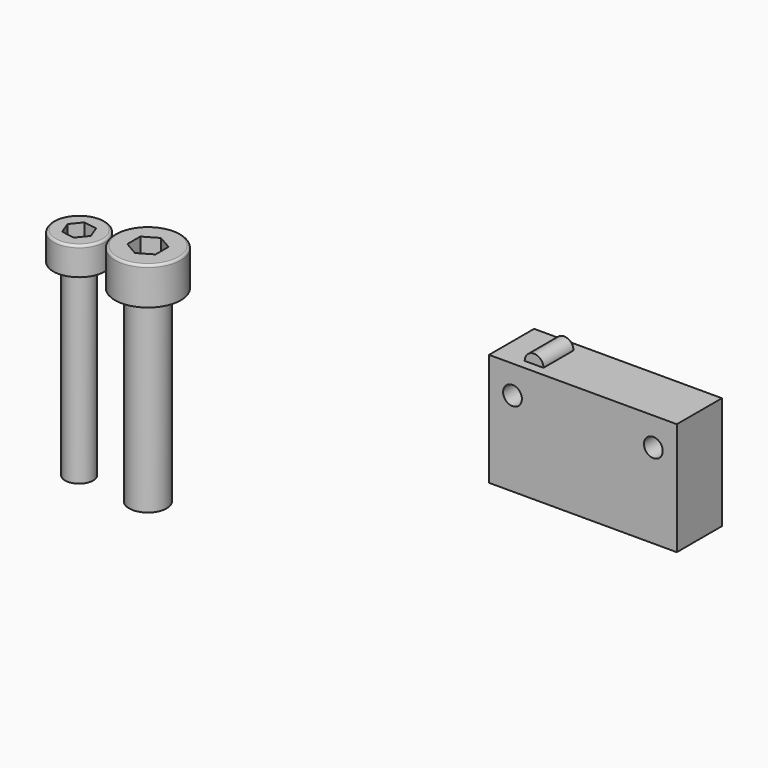
from build123d import *

# Parameters (mm, degrees)
F0_W      = 20
F0_H      = 12
F1_DEPTH  = 3
F2_R      = 1
F3_DEPTH  = 2
F4_R      = 1
F5_DEPTH  = 6.001
F6_R      = 1.5
F7_DEPTH  = 20
F8_R      = 2.75
F9_DEPTH  = 3
F11_DEPTH = 2
F12_R     = 0.25
F13_R     = 2
F14_DEPTH = 20
F15_R     = 3.5
F16_DEPTH = 4
F18_DEPTH = 3
F19_R     = 0.25


with BuildPart() as f1:
    # F0 (on Front) → F1 (new body, symmetric)
    with BuildSketch(Plane.XZ):
        with Locations((0, 6)):
            Rectangle(F0_W, F0_H)
    extrude(amount=F1_DEPTH, both=True)

    # F2 (on Front) → F3 (join, symmetric)
    with BuildSketch(Plane.XZ):
        with Locations((-6, 12)):
            Circle(F2_R)
    extrude(amount=F3_DEPTH, both=True)

    # F4 (on face) → F5 (cut, through all)
    with BuildSketch(Plane.XZ.offset(3)):
        with Locations((-7.5, 9)):
            Circle(F4_R)
        with Locations((7.5, 9)):
            Circle(F4_R)
    extrude(amount=-F5_DEPTH, mode=Mode.SUBTRACT)


with BuildPart() as f7:
    # F6 (on Top) → F7 (new body)
    with BuildSketch(Plane.XY):
        with Locations((-61.456285, 6.762655)):
            Circle(F6_R)
    extrude(amount=-F7_DEPTH)

    # F8 (on face) → F9 (join)
    with BuildSketch(Plane.XY):
        with Locations((-61.456285, 6.762655)):
            Circle(F8_R)
    extrude(amount=F9_DEPTH)

    # F10 (on face) → F11 (cut)
    with BuildSketch(Plane.XY.offset(3)):
        Polygon((-60.942254, 5.413914), (-60.031225, 6.533449), (-60.545257, 7.882191), (-61.970317, 8.111397), (-62.881346, 6.991862), (-62.367314, 5.64312), align=None)
    extrude(amount=-F11_DEPTH, mode=Mode.SUBTRACT)

    # F12
    f12_edges = [f7.edges().sort_by_distance(p)[0] for p in [
        (-64.206285, 6.762655, 3),
    ]]
    fillet(f12_edges, radius=F12_R)


with BuildPart() as f14:
    # F13 (on Top) → F14 (new body)
    with BuildSketch(Plane.XY):
        with Locations((-54.049708, 6.658276)):
            Circle(F13_R)
    extrude(amount=-F14_DEPTH)

    # F15 (on face) → F16 (join)
    with BuildSketch(Plane.XY):
        with Locations((-54.049708, 6.658276)):
            Circle(F15_R)
    extrude(amount=F16_DEPTH)

    # F17 (on face) → F18 (cut)
    with BuildSketch(Plane.XY.offset(4)):
        Polygon((-52.549708, 5.792251), (-52.549708, 7.524301), (-54.049708, 8.390327), (-55.549708, 7.524301), (-55.549708, 5.792251), (-54.049708, 4.926225), align=None)
    extrude(amount=-F18_DEPTH, mode=Mode.SUBTRACT)

    # F19
    f19_edges = [f14.edges().sort_by_distance(p)[0] for p in [
        (-57.549708, 6.658276, 4),
    ]]
    fillet(f19_edges, radius=F19_R)


solid = Compound([f1.part, f7.part, f14.part])
